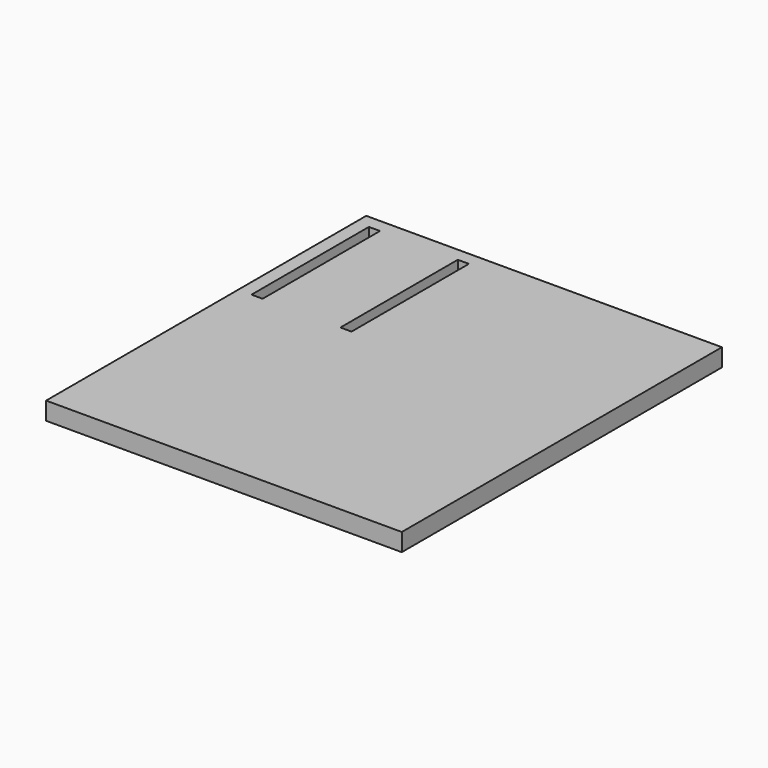
from build123d import *

# Parameters (mm, degrees)
F0_W     = 80
F0_H     = 90
F1_DEPTH = 4
F2_W     = 2.5
F2_H     = 33
F3_DEPTH = 4.001


with BuildPart() as f1:
    # F0 (on Top) → F1 (new body)
    with BuildSketch(Plane.XY):
        Rectangle(F0_W, F0_H)
    extrude(amount=F1_DEPTH)

    # F2 (on face) → F3 (cut, through all)
    with BuildSketch(Plane.XY.offset(4)):
        with Locations((-35.75, 25.5)):
            Rectangle(F2_W, F2_H)
        with Locations((-15.75, 25.5)):
            Rectangle(F2_W, F2_H)
    extrude(amount=-F3_DEPTH, mode=Mode.SUBTRACT)


solid = f1.part
